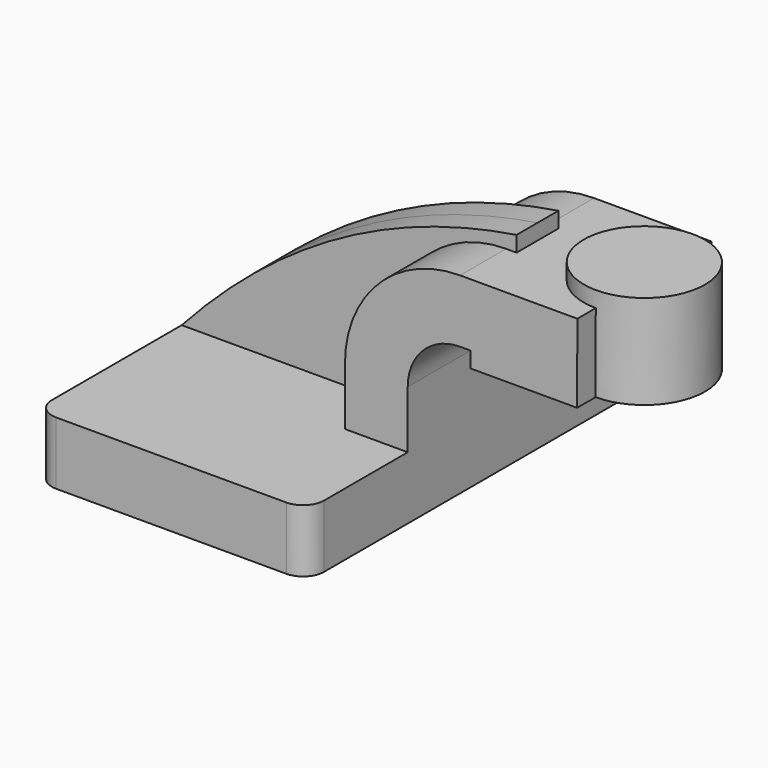
from build123d import *

# Parameters (mm, degrees)
F1_DEPTH = 63.5
F2_DEPTH = 25.4
F3_DEPTH = 7.9375
F4_DEPTH = 25.4
F5_R     = 6.35


with BuildPart() as f1:
    # F0 (on Front) → F1 (new body, symmetric)
    with BuildSketch(Plane.XZ):
        Polygon((-41.275, -9.525), (41.275, -9.525), (41.275, 9.525), (22.225, 9.525), (-41.275, 9.525), align=None)
    extrude(amount=F1_DEPTH, both=True)

    # F0 (on Front) → F2 (join, symmetric)
    with BuildSketch(Plane.XZ):
        with BuildLine():
            Line((22.225, 9.525), (41.275, 9.525))
            Line((41.275, 9.525), (41.275, 27.0002))
            ThreePointArc((41.275, 27.0002), (45.9246798487, 38.2255201513), (57.15, 42.8752))
            Line((57.15, 42.8752), (60.325, 42.8752))
            Line((60.325, 42.8752), (60.325, 61.9252))
            Line((60.325, 61.9252), (57.15, 61.9252))
            ThreePointArc((57.15, 61.9252), (32.4542956671, 51.6959043329), (22.225, 27.0002))
            Line((22.225, 27.0002), (22.225, 9.525))
        make_face()
    extrude(amount=F2_DEPTH, both=True)

    # F0 (on Front) → F3 (join, symmetric)
    with BuildSketch(Plane.XZ):
        with BuildLine():
            add(Edge.make_bspline(
                [(-41.275, 9.525), (-12.3398668578, 41.355177187), (20.8714975106, 60.4699858623), (60.325, 66.675)],
                knots=[0, 0, 0, 0, 116.5705044169, 116.5705044169, 116.5705044169, 116.5705044169], degree=3))
            Line((-41.275, 9.525), (22.225, 9.525))
            Line((22.225, 9.525), (22.225, 27.0002))
            ThreePointArc((22.225, 27.0002), (32.4542956671, 51.6959043329), (57.15, 61.9252))
            Line((57.15, 61.9252), (60.325, 61.9252))
            Line((60.325, 61.9252), (60.325, 66.675))
        make_face()
    extrude(amount=F3_DEPTH, both=True)

    # F0 (on Front) → F4 (join, symmetric)
    with BuildSketch(Plane.XZ):
        Polygon((92.7243528686, 61.9252), (60.325, 61.9252), (60.325, 42.8752), (60.325, 38.1), (92.6698073745, 38.1), align=None)
    extrude(amount=F4_DEPTH, both=True)

    # F5
    f5_edges = [f1.edges().sort_by_distance(p)[0] for p in [
        (-41.275, -63.5, 0),
        (41.275, -63.5, 0),
        (41.275, 63.5, 0),
        (-41.275, 63.5, 0),
    ]]
    fillet(f5_edges, radius=F5_R)

    # F0 (on Front) → F6 (revolve)
    with BuildSketch(Plane.XZ):
        Polygon((111.125, 66.675), (92.7352270769, 66.675), (92.7243528686, 61.9252), (92.6698073745, 38.1), (111.125, 38.1), align=None)
    revolve(axis=Axis((92.7025172257, 0, 52.3875), (0.0022893974, 0, 0.9999973793)))


solid = f1.part
